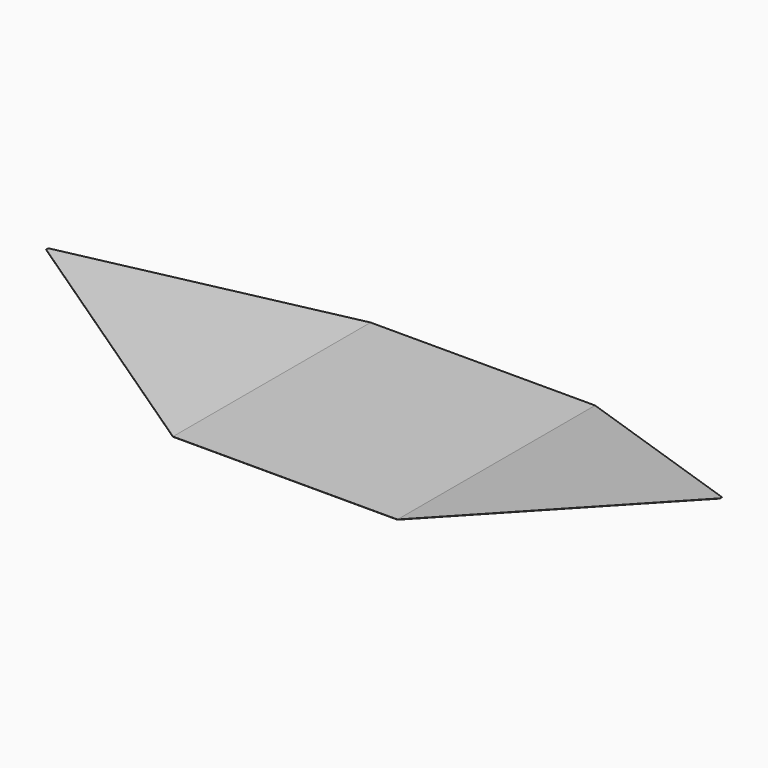
from build123d import *

# Parameters (mm, degrees)
SKETCH003_W  = 1000
SKETCH003_H  = 1100
PAD003_DEPTH = 1
PAD004_DEPTH = 1


with BuildPart() as part:
    # Sketch003 → Pad003 (new body)
    with BuildSketch(Plane.XY):
        Rectangle(SKETCH003_W, SKETCH003_H)
    extrude(amount=PAD003_DEPTH)

    with BuildSketch(Plane(origin=(-500, 0, 0), x_dir=(0.982961, 0, -0.183814), z_dir=(0.183814, 0, 0.982961))):
        Polygon((0, -550), (0, 550), (-1017.334262, 6), (-1017.334262, -6), align=None)
    pad004 = extrude(amount=PAD004_DEPTH)

    # Mirrored001: Pad004 across YZ
    add(pad004.mirror(Plane.YZ))


with BuildPart() as part_1:
    # Body002 placement: moved
    add(part.part.moved(Location((0, 0, -190))))


solid = part_1.part
